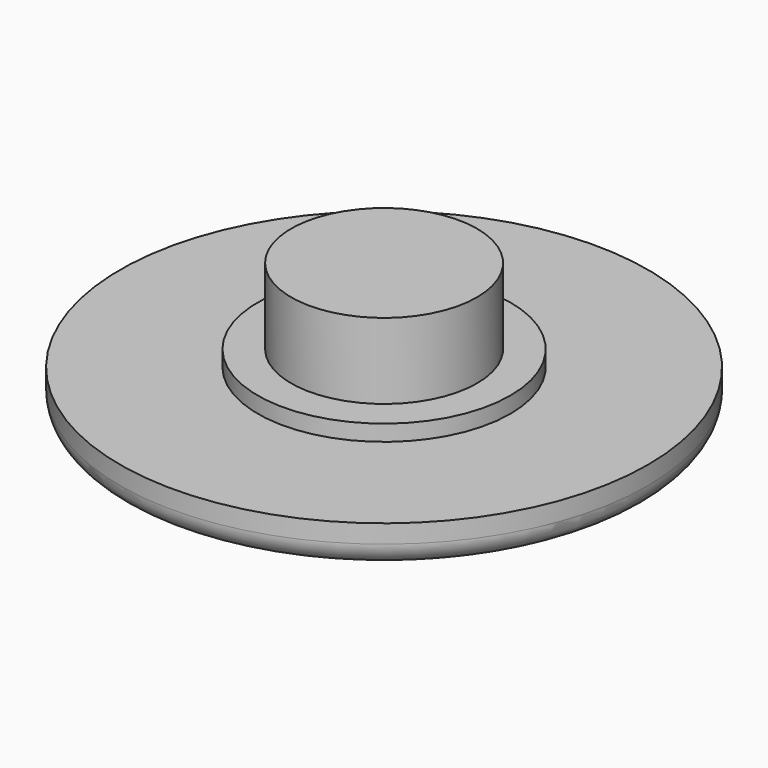
from build123d import *

# Parameters (mm, degrees)
F0_R     = 11.5
F0_R_2   = 5.5
F0_R_3   = 4.05
F1_DEPTH = 1.8
F2_DEPTH = 4
F3_DEPTH = 0.7
F4_R     = 1


with BuildPart() as f1:
    # F0 (on Top) → F1 (new body)
    with BuildSketch(Plane.XY):
        Circle(F0_R)
        Circle(F0_R_2, mode=Mode.SUBTRACT)
        Circle(F0_R_2)
        Circle(F0_R_3, mode=Mode.SUBTRACT)
        Circle(F0_R_3)
    extrude(amount=-F1_DEPTH)

    # F0 (on Top) → F2 (join)
    with BuildSketch(Plane.XY):
        Circle(F0_R_3)
    extrude(amount=F2_DEPTH)

    # F0 (on Top) → F3 (join)
    with BuildSketch(Plane.XY):
        Circle(F0_R_2)
        Circle(F0_R_3, mode=Mode.SUBTRACT)
    extrude(amount=F3_DEPTH)

    # F4
    f4_edges = [f1.edges().sort_by_distance(p)[0] for p in [
        (-11.5, 0, -1.8),
    ]]
    fillet(f4_edges, radius=F4_R)


solid = f1.part
